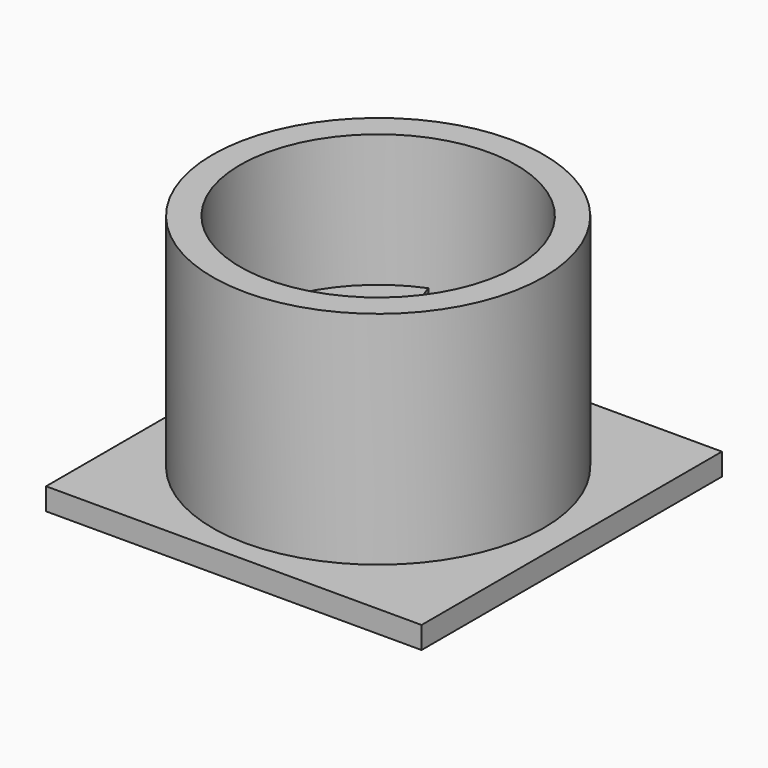
from build123d import *

# Parameters (mm, degrees)
F0_R     = 15
F0_R_2   = 12.5
F1_DEPTH = 20
F4_DEPTH = 2
F5_W     = 34
F5_H     = 34
F6_DEPTH = 2


with BuildPart() as f1:
    # F0 (on Top) → F1 (new body)
    with BuildSketch(Plane.XY):
        Circle(F0_R)
        Circle(F0_R_2, mode=Mode.SUBTRACT)
    extrude(amount=F1_DEPTH)

    # F3 (on offset) → F4 (join)
    with BuildSketch(Plane.XY.offset(8)):
        with BuildLine():
            ThreePointArc((1.396739, 2.073432), (0, -2.5), (-1.396739, 2.073432))
            Line((-1.396739, 2.073432), (-4.714967, 11.576661))
            ThreePointArc((-4.714967, 11.576661), (0, -12.5), (4.714967, 11.576661))
            Line((4.714967, 11.576661), (1.396739, 2.073432))
        make_face()
    extrude(amount=-F4_DEPTH)

    # F5 (on Top) → F6 (join)
    with BuildSketch(Plane.XY):
        with Locations((0.530663, 0)):
            Rectangle(F5_W, F5_H)
    extrude(amount=-F6_DEPTH)


solid = f1.part
